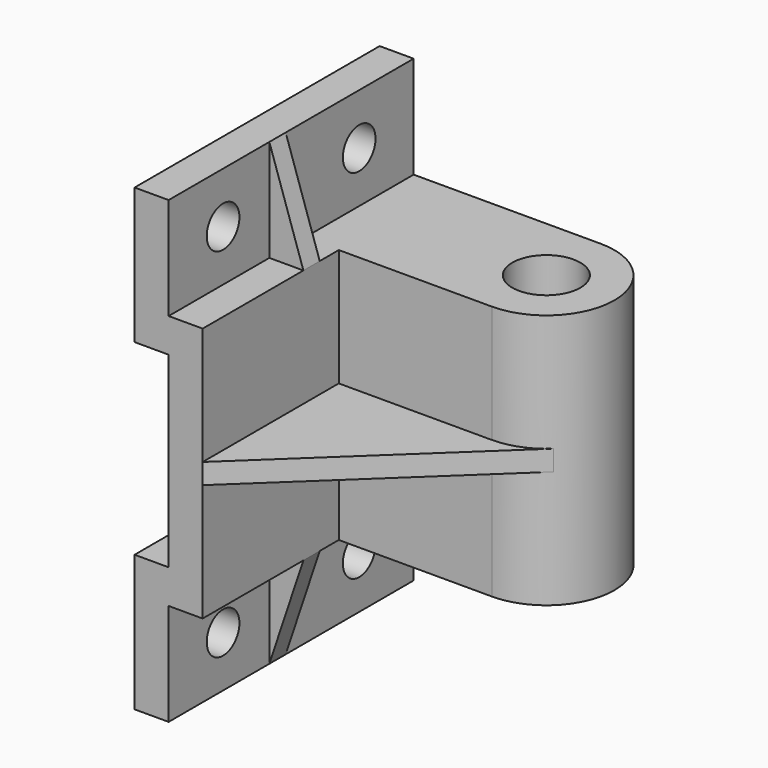
from build123d import *

# Parameters (mm, degrees)
F1_DEPTH  = 45
F2_R      = 10
F3_DEPTH  = 75
F5_DEPTH  = 3
F8_DEPTH  = 6
F10_R     = 6
F11_DEPTH = 10.001


with BuildPart() as f1:
    # F0 (on Front) → F1 (new body, symmetric)
    with BuildSketch(Plane.XZ):
        Polygon((-10, 67.5), (-20, 67.5), (-20, 27.5), (-10, 27.5), (-10, -27.5), (-20, -27.5), (-20, -67.5), (-10, -67.5), (-10, -37.5), (0, -37.5), (0, 37.5), (-10, 37.5), align=None)
    extrude(amount=F1_DEPTH, both=True)

    # F2 (on face) → F3 (join, through all)
    with BuildSketch(Plane.XY.offset(37.5)):
        with BuildLine():
            Line((0, 5), (45, 5))
            ThreePointArc((45, 5), (65, 25), (45, 45))
            Line((45, 45), (0, 45))
            Line((0, 45), (0, 5))
        make_face()
        with Locations((45, 25)):
            Circle(F2_R, mode=Mode.SUBTRACT)
    extrude(amount=-F3_DEPTH)

    # F4 (on Top) → F5 (join, symmetric)
    with BuildSketch(Plane.XY):
        with BuildLine():
            Line((0, 5), (0, -45))
            Line((0, -45), (58.7311856969, 10.4585234807))
            ThreePointArc((58.7311856969, 10.4585234807), (52.3881821044, 6.414662629), (45, 5))
            Line((45, 5), (0, 5))
        make_face()
    extrude(amount=F5_DEPTH, both=True)

    # F7 (on offset) → F8 (join)
    with BuildSketch(Plane.XZ.offset(8)):
        Polygon((0, 37.5), (-10, 67.5), (-10, 37.5), align=None)
    extrude(amount=-F8_DEPTH)

    # F9: F1 across plane


with BuildPart() as f1_1:
    add(f1.part)
    add(f1.part.mirror(Plane.XY))

    # F10 (on face) → F11 (cut, through all)
    with BuildSketch(Plane.YZ.offset(-10)):
        with Locations((-25, 52.5)):
            Circle(F10_R)
        with Locations((25, 52.5)):
            Circle(F10_R)
        with Locations((-25, -52.5)):
            Circle(F10_R)
        with Locations((25, -52.5)):
            Circle(F10_R)
    extrude(amount=-F11_DEPTH, mode=Mode.SUBTRACT)


solid = f1_1.part
